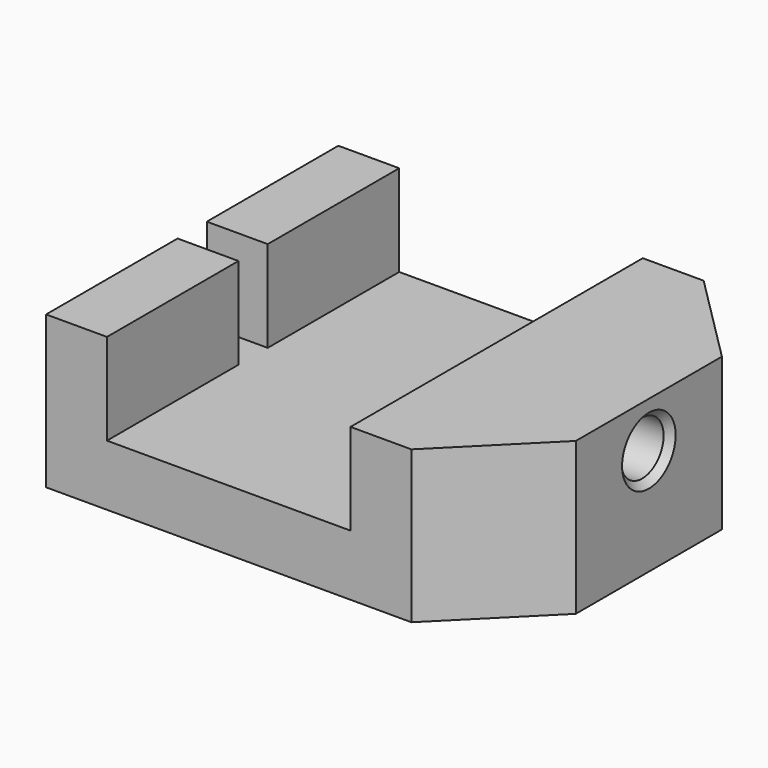
from build123d import *

# Parameters (mm, degrees)
F7_W           = 10
F7_H           = 60
F7_W_2         = 40
F0_DEPTH       = 10
F1_DEPTH       = 25
F2_W           = 10
F2_H           = 6
F3_DEPTH       = 15
F6_D           = 8.8
F6_DEPTH       = 25
F6_CSINK_D     = 11
F6_CSINK_ANGLE = 90


with BuildPart() as f0:
    # F7 (on Top) → F0 (new body)
    with BuildSketch(Plane.XY):
        with Locations((-45, 0)):
            Rectangle(F7_W, F7_H)
        Polygon((10, 30), (0, 30), (0, -30), (10, -30), (25, -15), (25, 15), align=None)
        with Locations((-20, 0)):
            Rectangle(F7_W_2, F7_H)
    extrude(amount=F0_DEPTH)

    # F7 (on Top) → F1 (join)
    with BuildSketch(Plane.XY):
        with Locations((-45, 0)):
            Rectangle(F7_W, F7_H)
        Polygon((10, 30), (0, 30), (0, -30), (10, -30), (25, -15), (25, 15), align=None)
    extrude(amount=F1_DEPTH)

    # F2 (on face) → F3 (cut)
    with BuildSketch(Plane.XY.offset(25)):
        with Locations((-45, 0)):
            Rectangle(F2_W, F2_H)
    extrude(amount=-F3_DEPTH, mode=Mode.SUBTRACT)

    # F6
    with Locations(Plane.YZ.offset(25)):
        with Locations((0, 17.5)):
            CounterSinkHole(F6_D / 2, F6_CSINK_D / 2, depth=F6_DEPTH, counter_sink_angle=F6_CSINK_ANGLE)


solid = f0.part
